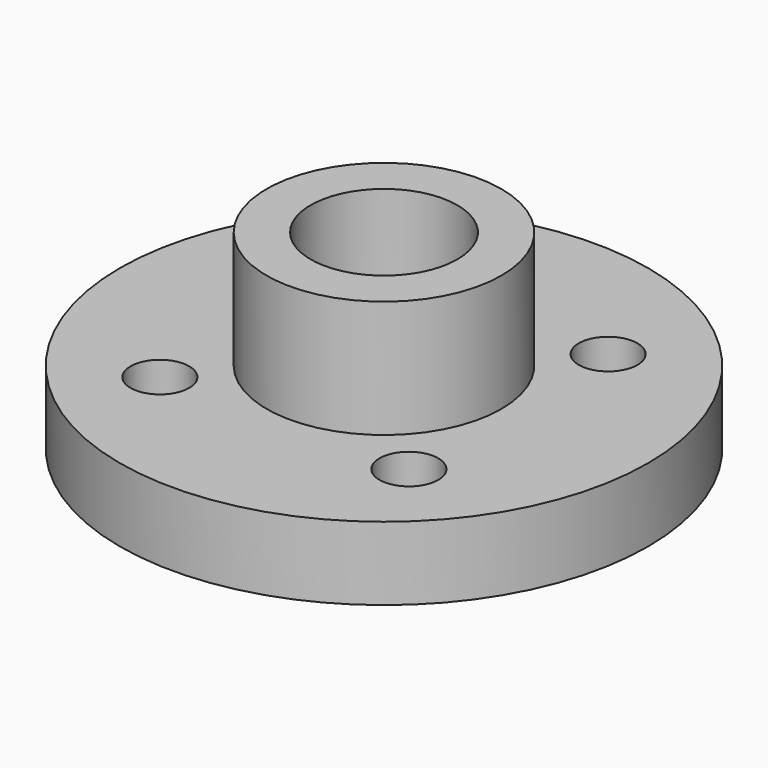
from build123d import *

# Parameters (mm, degrees)
SKETCH010_R      = 18
SKETCH010_R_2    = 5
SKETCH010_R_3    = 2
EXTRUDE010_DEPTH = 5
SKETCH011_R      = 8
SKETCH011_R_2    = 5
EXTRUDE011_DEPTH = 8


with BuildPart() as extrude010:
    # Sketch010 (on Face29 of Cut003) → Extrude010 (new body)
    with BuildSketch(Plane.XY.offset(49)):
        Circle(SKETCH010_R)
        Circle(SKETCH010_R_2, mode=Mode.SUBTRACT)
        with Locations((8.485281, 8.485281)):
            Circle(SKETCH010_R_3, mode=Mode.SUBTRACT)
        with Locations((8.485281, -8.485281)):
            Circle(SKETCH010_R_3, mode=Mode.SUBTRACT)
        with Locations((-8.485281, -8.485281)):
            Circle(SKETCH010_R_3, mode=Mode.SUBTRACT)
        with Locations((-8.485281, 8.485281)):
            Circle(SKETCH010_R_3, mode=Mode.SUBTRACT)
    extrude(amount=EXTRUDE010_DEPTH)


with BuildPart() as flangemockup:
    # Sketch011 (on Face8 of Extrude010) → Extrude011 (new body)
    with BuildSketch(Plane.XY.offset(54)):
        Circle(SKETCH011_R)
        Circle(SKETCH011_R_2, mode=Mode.SUBTRACT)
    extrude(amount=EXTRUDE011_DEPTH)

    # Fusion002: union Extrude010
    add(extrude010.part)


solid = flangemockup.part
